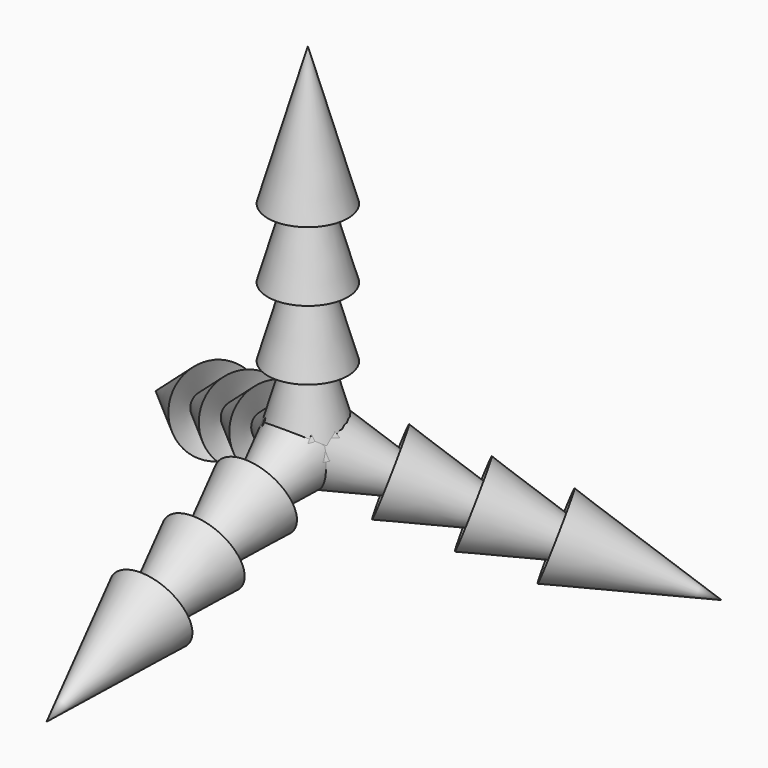
from build123d import *

# Parameters (mm, degrees)
F4_ANGLE = 109.4712
F5_COUNT = 3


with BuildPart() as f2:
    # F0 (on Front) → F2 (revolve)
    with BuildSketch(Plane.XZ):
        Polygon((0, 20), (0, 25), (-2.8867513459, 15), (-0.9622505658, 16.6666665652), align=None)
        Polygon((0, 17.5), (0, 20), (-0.9622505658, 16.6666665652), align=None)
        Polygon((0, 14.9999999553), (0, 17.5), (-0.9622505658, 16.6666665652), (-2.8867514338, 10), (-0.9622503959, 11.6666667377), align=None)
        Polygon((0, 12.5), (0, 14.9999999553), (-0.9622503959, 11.6666667377), align=None)
        Polygon((0, 9.9999999553), (0, 12.5), (-0.9622503959, 11.6666667377), (-2.8867513459, 4.9999998882), (-0.962250463, 6.666666617), align=None)
    revolve(axis=Axis((0, 0, 22.5), (0, 0, -1)))


with BuildPart() as f2b:
    # F0 (on Front) → F2, piece 2 (revolve)
    with BuildSketch(Plane.XZ):
        Polygon((0, 4.9999999627), (0, 7.5), (-0.962250463, 6.666666617), (-2.8867513459, 0), (0, 0), align=None)
    revolve(axis=Axis((0, 0, 22.5), (0, 0, -1)))


with BuildPart() as f4_1:
    # F4: copy of F2
    add(f2.part.rotate(Axis((-9.313e-07, 0, 0), (1, 0, 0)), F4_ANGLE))


with BuildPart() as f4_2:
    # F4: copy of F2b
    add(f2b.part.rotate(Axis((-9.313e-07, 0, 0), (1, 0, 0)), F4_ANGLE))


with BuildPart() as f5_1:
    # F5: instance of F4_1
    add(f4_1.part.rotate(Axis((0, 0, -12.5), (0, 0, -1)), 1 * 360 / F5_COUNT))


with BuildPart() as f5_2:
    # F5: instance of F4_1
    add(f4_1.part.rotate(Axis((0, 0, -12.5), (0, 0, -1)), 2 * 360 / F5_COUNT))


with BuildPart() as f5_3:
    # F5: instance of F4_2
    add(f4_2.part.rotate(Axis((0, 0, -12.5), (0, 0, -1)), 1 * 360 / F5_COUNT))


with BuildPart() as f5_4:
    # F5: instance of F4_2
    add(f4_2.part.rotate(Axis((0, 0, -12.5), (0, 0, -1)), 2 * 360 / F5_COUNT))


solid = Compound([f2.part, f2b.part, f4_1.part, f4_2.part, f5_1.part, f5_2.part, f5_3.part, f5_4.part])
